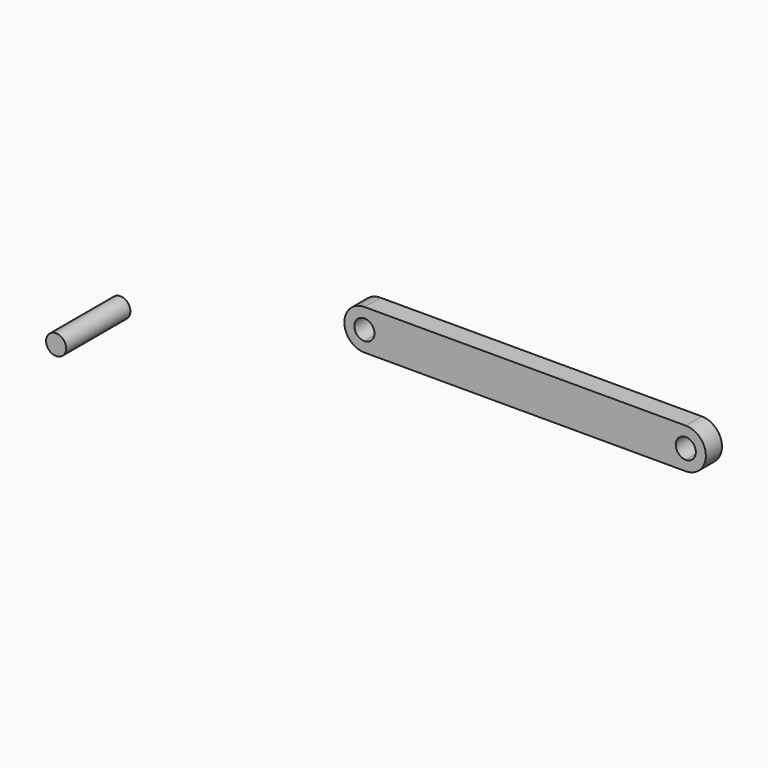
from build123d import *

# Parameters (mm, degrees)
F1_DEPTH = 12.7
F2_R     = 6.35
F3_DEPTH = 50.8


with BuildPart() as f1:
    # F0 (on Front) → F1 (new body)
    with BuildSketch(Plane.XZ):
        with BuildLine():
            Line((100.995691, 8.988704), (-102.204309, 8.988704))
            Line((-102.204309, 8.988704), (-102.204309, 2.638704))
            ThreePointArc((-102.204309, 2.638704), (-97.714181, 0.778832), (-95.854309, -3.711296))
            ThreePointArc((-95.854309, -3.711296), (-97.714181, -8.201424), (-102.204309, -10.061296))
            Line((-102.204309, -10.061296), (-102.204309, -16.411296))
            Line((-102.204309, -16.411296), (100.995691, -16.411296))
            Line((100.995691, -16.411296), (100.995691, -10.061296))
            ThreePointArc((100.995691, -10.061296), (94.645691, -3.711296), (100.995691, 2.638704))
            Line((100.995691, 2.638704), (100.995691, 8.988704))
        make_face()
        with BuildLine():
            Line((-102.204309, 2.638704), (-102.204309, 8.988704))
            ThreePointArc((-102.204309, 8.988704), (-114.904309, -3.711296), (-102.204309, -16.411296))
            Line((-102.204309, -16.411296), (-102.204309, -10.061296))
            ThreePointArc((-102.204309, -10.061296), (-108.554309, -3.711296), (-102.204309, 2.638704))
        make_face()
        with BuildLine():
            ThreePointArc((100.995691, -16.411296), (113.695691, -3.711296), (100.995691, 8.988704))
            Line((100.995691, 8.988704), (100.995691, 2.638704))
            ThreePointArc((100.995691, 2.638704), (105.485819, 0.778832), (107.345691, -3.711296))
            ThreePointArc((107.345691, -3.711296), (105.485819, -8.201424), (100.995691, -10.061296))
            Line((100.995691, -10.061296), (100.995691, -16.411296))
        make_face()
    extrude(amount=F1_DEPTH)


with BuildPart() as f3:
    # F2 (on Front) → F3 (new body)
    with BuildSketch(Plane.XZ):
        with Locations((-266.676515, -50.013173)):
            Circle(F2_R)
    extrude(amount=F3_DEPTH)


solid = Compound([f1.part, f3.part])
